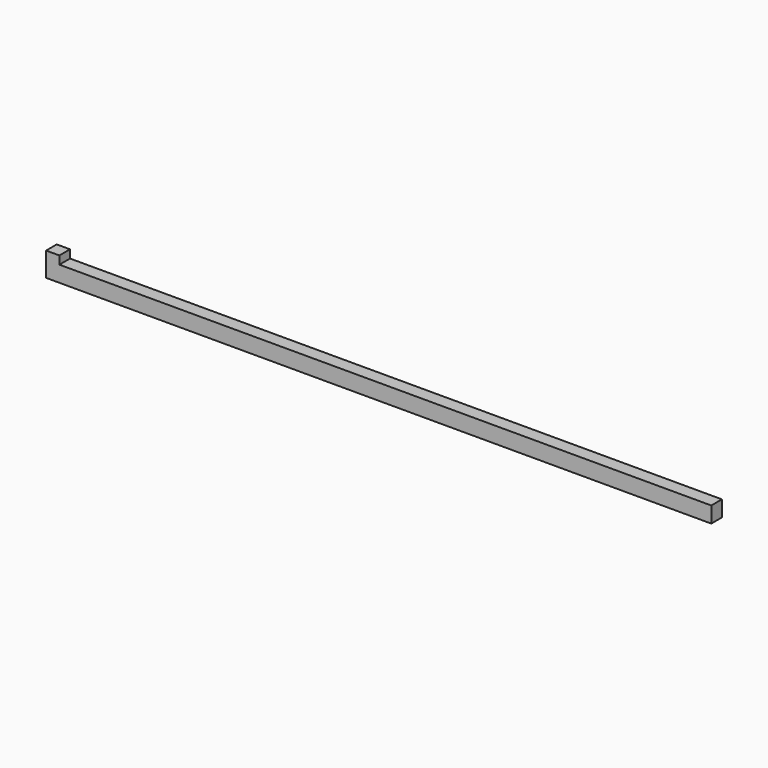
from build123d import *

# Parameters (mm, degrees)
F0_W     = 10
F0_H     = 12
F1_DEPTH = 500
F2_W     = 10
F2_H     = 10
F3_DEPTH = 6.1


with BuildPart() as f1:
    # F0 (on Right) → F1 (new body)
    with BuildSketch(Plane.YZ):
        Rectangle(F0_W, F0_H)
        Rectangle(F0_W, F0_H)
    extrude(amount=F1_DEPTH)

    # F2 (on face) → F3 (join)
    with BuildSketch(Plane.XY.offset(6)):
        with Locations((5, 0)):
            Rectangle(F2_W, F2_H)
    extrude(amount=F3_DEPTH)


solid = f1.part
